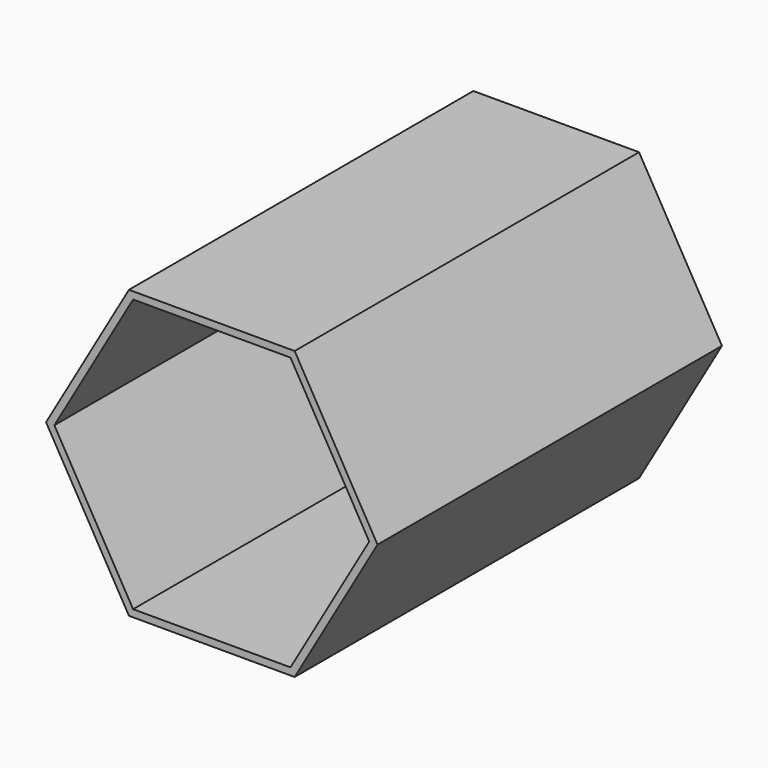
from build123d import *

# Parameters (mm, degrees)
F1_DEPTH = 76.2


with BuildPart() as f1:
    # F0 (on Front) → F1 (new body)
    with BuildSketch(Plane.XZ):
        Polygon((29.329394, 0), (14.664697, 25.4), (-14.664697, 25.4), (-29.329394, 0), (-14.664697, -25.4), (14.664697, -25.4), align=None)
        Polygon((-13.931462, -24.13), (-27.862924, 0), (-13.931462, 24.13), (13.931462, 24.13), (27.862924, 0), (13.931462, -24.13), align=None, mode=Mode.SUBTRACT)
    extrude(amount=-F1_DEPTH)


solid = f1.part
